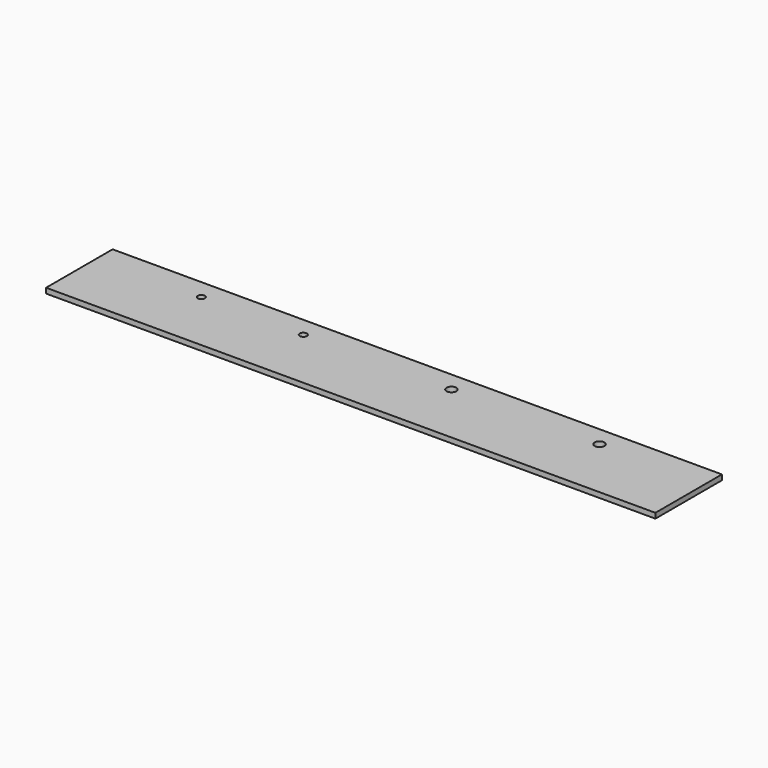
from build123d import *

# Parameters (mm, degrees)
F0_W     = 1489.075
F0_H     = 203.2
F0_R     = 8.73125
F0_R_2   = 11.90625
F1_DEPTH = 12.7


with BuildPart() as f1:
    # F0 (on Top) → F1 (new body)
    with BuildSketch(Plane.XY):
        Rectangle(F0_W, F0_H)
        with Locations((-488.95, 53.1749)):
            Circle(F0_R, mode=Mode.SUBTRACT)
        with Locations((-239.7125, 53.1749)):
            Circle(F0_R, mode=Mode.SUBTRACT)
        with Locations((122.2375, 53.1749)):
            Circle(F0_R_2, mode=Mode.SUBTRACT)
        with Locations((484.1875, 53.1749)):
            Circle(F0_R_2, mode=Mode.SUBTRACT)
    extrude(amount=F1_DEPTH)


solid = f1.part
